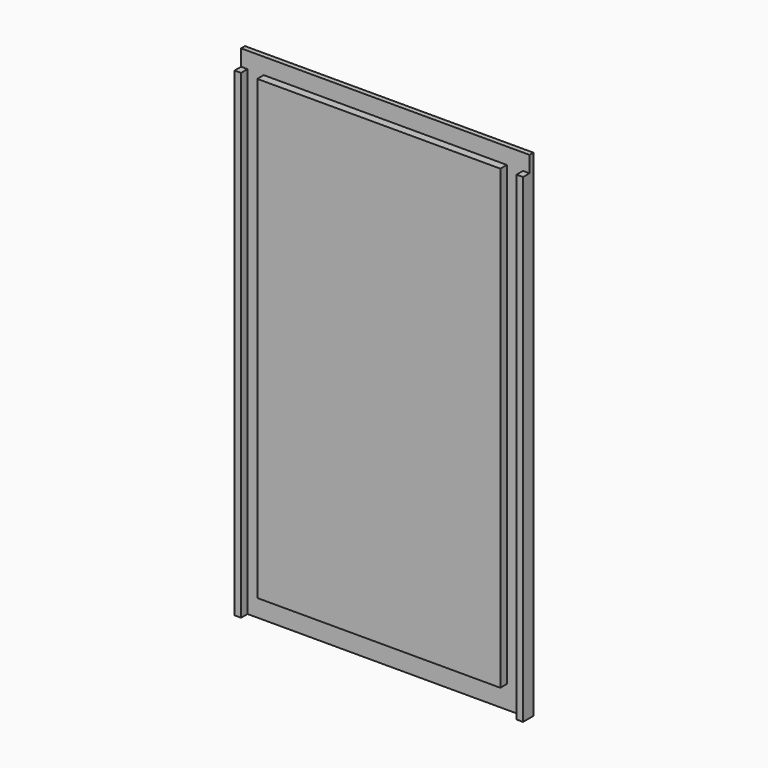
from build123d import *

# Parameters (mm, degrees)
F0_W     = 89
F0_H     = 153
F1_DEPTH = 4
F2_W     = 5
F2_H     = 5
F2_W_2   = 2
F2_W_3   = 75
F2_H_2   = 7
F3_DEPTH = 2.5


with BuildPart() as f1:
    # F0 (on Front) → F1 (new body)
    with BuildSketch(Plane.XZ):
        Rectangle(F0_W, F0_H)
    extrude(amount=F1_DEPTH)

    # F2 (on face) → F3 (cut)
    with BuildSketch(Plane.XZ.offset(4)):
        with Locations((-40, 74)):
            Rectangle(F2_W, F2_H)
        with Locations((-43.5, 74)):
            Rectangle(F2_W_2, F2_H)
        with Locations((0, 74)):
            Rectangle(F2_W_3, F2_H)
        Polygon((-37.5, 71.5), (-42.5, 71.5), (-42.5, -76.5), (-37.5, -76.5), (-37.5, -69.5), align=None)
        with Locations((40, 74)):
            Rectangle(F2_W, F2_H)
        with Locations((0, -73)):
            Rectangle(F2_W_3, F2_H_2)
        Polygon((42.5, 71.5), (37.5, 71.5), (37.5, -69.5), (37.5, -76.5), (42.5, -76.5), align=None)
        with Locations((43.5, 74)):
            Rectangle(F2_W_2, F2_H)
    extrude(amount=-F3_DEPTH, mode=Mode.SUBTRACT)


solid = f1.part
